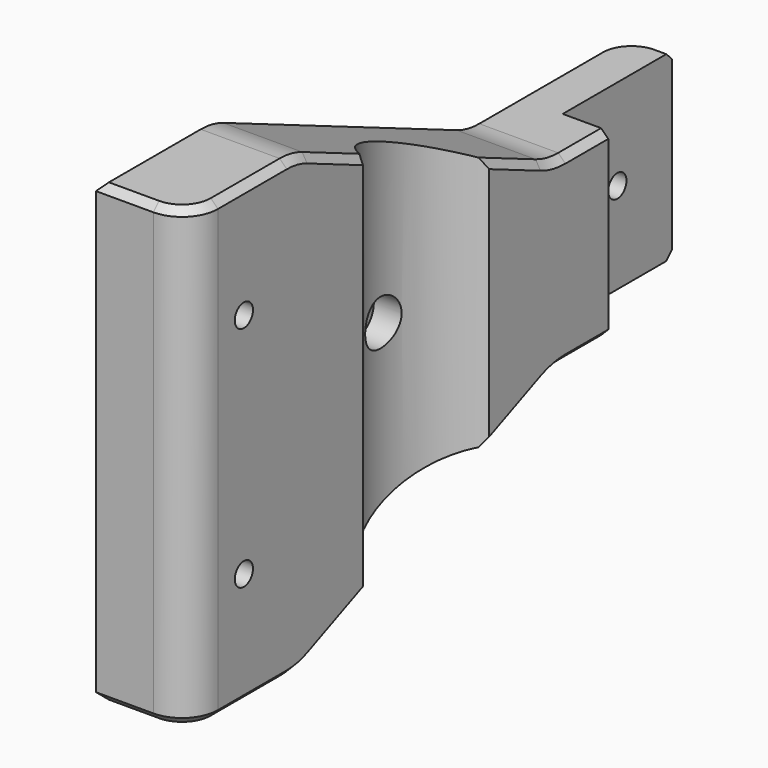
from build123d import *

# Parameters (mm, degrees)
F0_R     = 1.5875
F0_R_2   = 3.175
F1_DEPTH = 13
F2_W     = 6.35
F2_H     = 19.05
F3_DEPTH = 37.5
F4_R     = 10
F5_R     = 5
F6_SIZE  = 1
F7_SIZE  = 3.175


with BuildPart() as f1:
    # F0 (on Right) → F1 (new body)
    with BuildSketch(Plane.YZ):
        Polygon((0, 31.75), (0, 0), (0, -31.75), (19.05, -31.75), (63.5, -12.7), (92.075, -12.7), (92.075, 0), (92.075, 12.7), (63.5, 12.7), (19.05, 31.75), align=None)
        with Locations((9.525, -15.875)):
            Circle(F0_R, mode=Mode.SUBTRACT)
        with Locations((41.275, 0)):
            Circle(F0_R_2, mode=Mode.SUBTRACT)
        with Locations((9.525, 15.875)):
            Circle(F0_R, mode=Mode.SUBTRACT)
        with Locations((82.55, 0)):
            Circle(F0_R, mode=Mode.SUBTRACT)
    extrude(amount=-F1_DEPTH)

    # F2 (on Top) → F3 (cut, symmetric)
    with BuildSketch(Plane.XY):
        with BuildLine():
            Line((0, 30.276477), (0, 52.273523))
            ThreePointArc((0, 52.273523), (-6.35, 41.275), (0, 30.276477))
        make_face()
        with Locations((-3.175, 82.55)):
            Rectangle(F2_W, F2_H)
    extrude(amount=F3_DEPTH, both=True, mode=Mode.SUBTRACT)

    # F4
    f4_edges = [f1.edges().sort_by_distance(p)[0] for p in [
        (-6.5, 19.05, 31.75),
        (-6.5, 63.5, 12.7),
        (-6.5, 63.5, -12.7),
        (-6.5, 19.05, -31.75),
    ]]
    fillet(f4_edges, radius=F4_R)

    # F5
    f5_edges = [f1.edges().sort_by_distance(p)[0] for p in [
        (-13, 92.075, 0),
        (0, 0, 0),
    ]]
    fillet(f5_edges, radius=F5_R)

    # F6
    f6_edges = [f1.edges().sort_by_distance(p)[0] for p in [
        (-13, 76.313789, 12.7),
        (0, 10.998711, 31.75),
        (0, 25.606547, 28.940051),
        (0, 56.943453, 15.509949),
        (0, 69.288789, -12.7),
        (0, 25.606547, -28.940051),
        (0, 56.943453, -15.509949),
        (-13, 76.313789, -12.7),
    ]]
    chamfer(f6_edges, length=F6_SIZE)

    # F7
    f7_edges = [f1.edges().sort_by_distance(p)[0] for p in [
        (-13, 38.1, 0),
    ]]
    chamfer(f7_edges, length=F7_SIZE)


solid = f1.part
